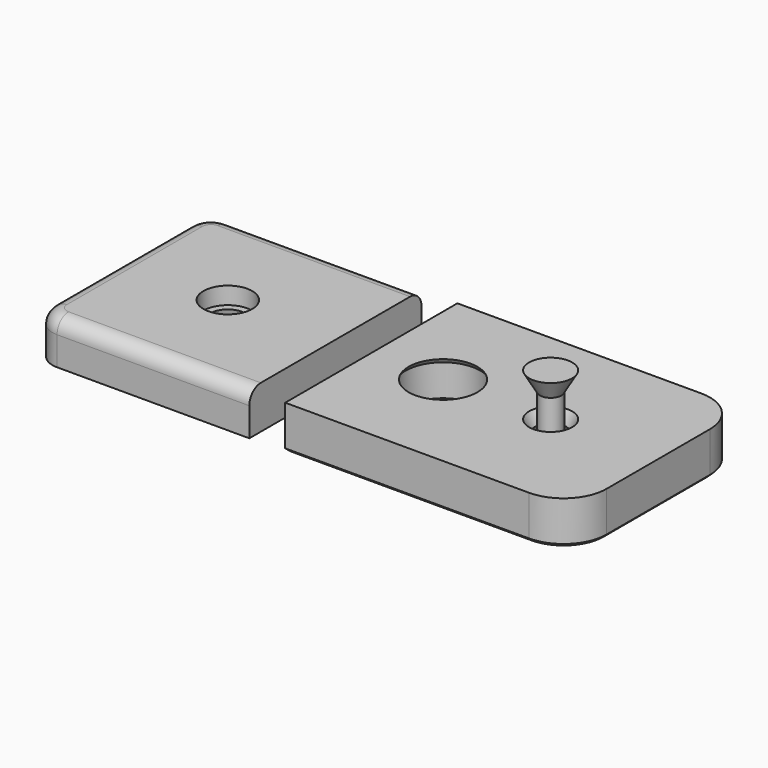
from build123d import *

# Parameters (mm, degrees)
F0_W     = 20
F0_H     = 15
F1_DEPTH = 3
F6_W     = 15
F6_H     = 15
F7_DEPTH = 3
F10_R    = 3
F11_SIZE = 0.2
F12_R    = 1.6
F13_R    = 1


with BuildPart() as f1:
    # F0 (on Top) → F1 (new body)
    with BuildSketch(Plane.XY):
        with Locations((-2.5, 0)):
            Rectangle(F0_W, F0_H)
    extrude(amount=F1_DEPTH)

    # F2 (on Front) → F3 (revolve, cut)
    with BuildSketch(Plane.XZ):
        Polygon((-1.761477, 0.5), (-1.761477, 0), (0, 0), (0, 3), (-1.5, 3), (-1.074632, 2.2), align=None)
    revolve(axis=Axis((0, 0, 1.600896), (0, 0, -1)), mode=Mode.SUBTRACT)

    # F4 (on Front) → F5 (revolve)
    with BuildSketch(Plane.XZ):
        with BuildLine():
            Line((0, 0), (0, 6))
            Line((0, 6), (-1.5, 6))
            Line((-1.5, 6), (-0.75, 4.700962))
            Line((-0.75, 4.700962), (-0.75, 1.3))
            ThreePointArc((-0.75, 1.3), (-0.837868, 1.087868), (-1.05, 1))
            Line((-1.05, 1), (-1.3, 1))
            Line((-1.3, 1), (-1.3, 0.7))
            Line((-1.3, 0.7), (-1.020215, 0.1))
            Line((-1.020215, 0.1), (-2.5, 0.1))
            Line((-2.5, 0.1), (-2.5, 0))
            Line((-2.5, 0), (0, 0))
        make_face()
    revolve(axis=Axis((0, 0, 3.129984), (0, 0, -1)))

    # F10
    f10_edges = [f1.edges().sort_by_distance(p)[0] for p in [
        (7.5, -7.5, 1.5),
        (7.5, 7.5, 1.5),
    ]]
    fillet(f10_edges, radius=F10_R)

    # F11
    f11_edges = [f1.edges().sort_by_distance(p)[0] for p in [
        (7.5, 0, 0),
        (-4, -7.5, 0),
        (-12.5, 0, 0),
        (-4, 7.5, 0),
    ]]
    chamfer(f11_edges, length=F11_SIZE)

    # F14 (on Front) → F15 (revolve, cut)
    with BuildSketch(Plane.XZ):
        Polygon((-10.1, 2.7), (-10.1, 0.5), (-9.9, 0.5), (-10.15, 0.1), (-10.15, 0), (-7.5, 0), (-7.5, 3), (-9.9, 3), align=None)
    revolve(axis=Axis((-7.5, 0, 0.24304), (0, 0, -1)), mode=Mode.SUBTRACT)


with BuildPart() as f7:
    # F6 (on Top) → F7 (new body)
    with BuildSketch(Plane.XY):
        with Locations((-22.5, 0)):
            Rectangle(F6_W, F6_H)
    extrude(amount=F7_DEPTH)

    # F8 (on Front) → F9 (revolve, cut)
    with BuildSketch(Plane.XZ):
        Polygon((-22.5, 0), (-22.5, 3), (-24.2, 3), (-24.2, 1.8), (-23.7, 1.8), (-24.2, 0), align=None)
    revolve(axis=Axis((-22.5, 0, 0.614696), (0, 0, -1)), mode=Mode.SUBTRACT)

    # F12
    f12_edges = [f7.edges().sort_by_distance(p)[0] for p in [
        (-30, -7.5, 1.5),
        (-30, 7.5, 1.5),
    ]]
    fillet(f12_edges, radius=F12_R)

    # F13
    f13_edges = [f7.edges().sort_by_distance(p)[0] for p in [
        (-21.7, -7.5, 3),
    ]]
    fillet(f13_edges, radius=F13_R)


solid = Compound([f1.part, f7.part])
